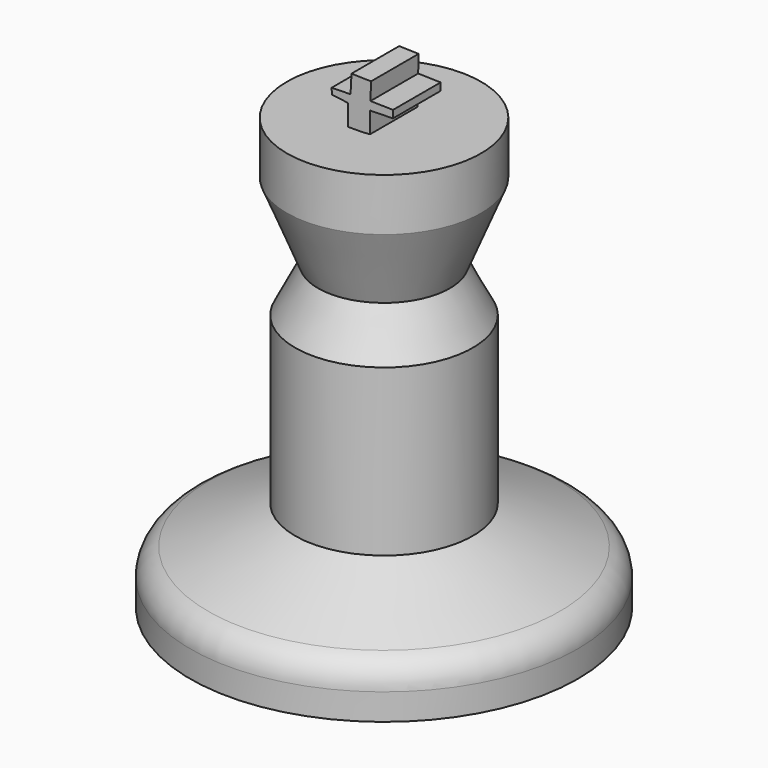
from build123d import *

# Parameters (mm, degrees)
F3_DEPTH = 5


with BuildPart() as f1:
    # F0 (on Front) → F1 (revolve)
    with BuildSketch(Plane.XZ):
        with BuildLine():
            Line((-32.54427, -50.761096), (0, -50.761096))
            Line((0, -50.761096), (0, 21.635026))
            Line((0, 21.635026), (-16.303314, 21.635026))
            Line((-16.303314, 21.635026), (-16.303314, 12.826373))
            Line((-16.303314, 12.826373), (-11.073175, 0))
            Line((-11.073175, 0), (-14.926962, -7.54364))
            Line((-14.926962, -7.54364), (-14.926962, -35.345953))
            Line((-14.926962, -35.345953), (-29.548365, -41.742818))
            ThreePointArc((-29.548365, -41.742818), (-31.728794, -43.586861), (-32.54427, -46.323604))
            Line((-32.54427, -46.323604), (-32.54427, -50.761096))
        make_face()
    revolve(axis=Axis((0, 0, -14.563035), (0, 0, -1)))

    # F2 (on Front) → F3 (join)
    with BuildSketch(Plane.XZ):
        Polygon((-2.04105, 21.477198), (1.649017, 21.728793), (1.649017, 25.25113), (5.506815, 25.334995), (5.506815, 26.592974), (1.732882, 26.676839), (1.816748, 29.612118), (-1.453994, 29.695984), (-1.621724, 26.592974), (-4.808601, 26.509108), (-4.724736, 25.502726), (-2.04105, 25.167266), align=None)
    extrude(amount=F3_DEPTH)

    # F4: F1 across face


with BuildPart() as f1_1:
    add(f1.part)
    add(f1.part.mirror(Plane(origin=(0.130619, 0, 25.64342), x_dir=(1, 0, 0), z_dir=(0, 1, 0))))


solid = f1_1.part
